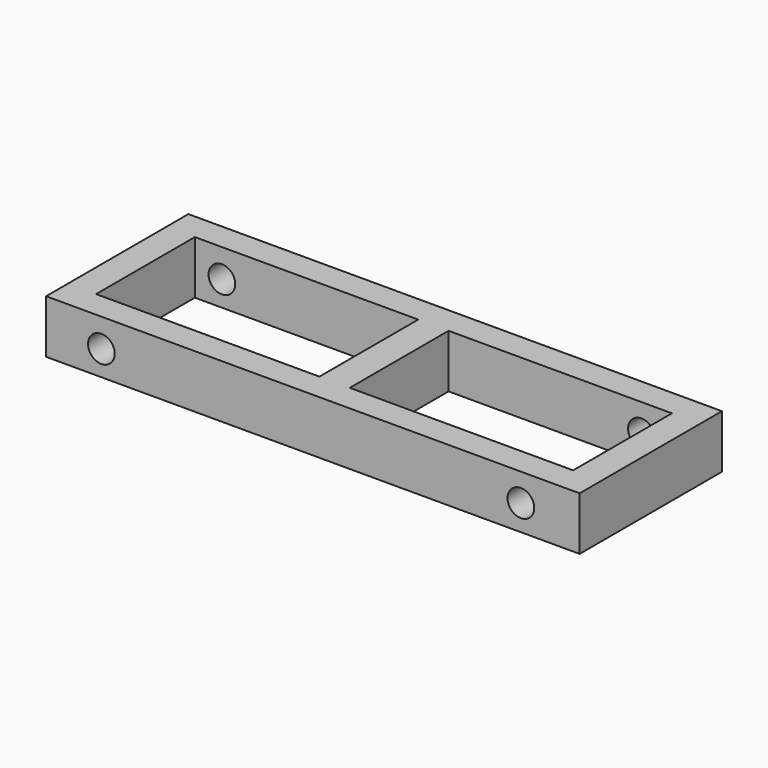
from build123d import *

# Parameters (mm, degrees)
F0_W     = 150.0187367201
F0_H     = 50.0062517822
F1_DEPTH = 15
F4_W     = 134.1393142939
F4_H     = 34.7154848278
F5_DEPTH = 39.6
F6_W     = 8.5336472839
F6_H     = 34.7154848278
F7_DEPTH = 15
F9_D     = 7.5
F11_D    = 7.5


with BuildPart() as f1:
    # F0 (on Top) → F1 (new body)
    with BuildSketch(Plane.XY):
        Rectangle(F0_W, F0_H)
    extrude(amount=F1_DEPTH)

    # F4 (on face) → F5 (cut)
    with BuildSketch(Plane.XY.offset(15)):
        Rectangle(F4_W, F4_H)
    extrude(amount=-F5_DEPTH, mode=Mode.SUBTRACT)

    # F6 (on face) → F7 (join)
    with BuildSketch(Plane.XY.offset(15)):
        Rectangle(F6_W, F6_H)
    extrude(amount=-F7_DEPTH)

    # F9 (through all)
    with Locations(Plane(origin=(0, 25.0031258911, 0), x_dir=(-1, 0, 0), z_dir=(0, 1, 0))):
        with Locations((-58.490190655, 7.2111194022)):
            Hole(F9_D / 2)

    # F11 (through all)
    with Locations(Plane(origin=(0, 25.0031258911, 0), x_dir=(-1, 0, 0), z_dir=(0, 1, 0))):
        with Locations((59.4607852399, 7.0205056109)):
            Hole(F11_D / 2)


solid = f1.part
